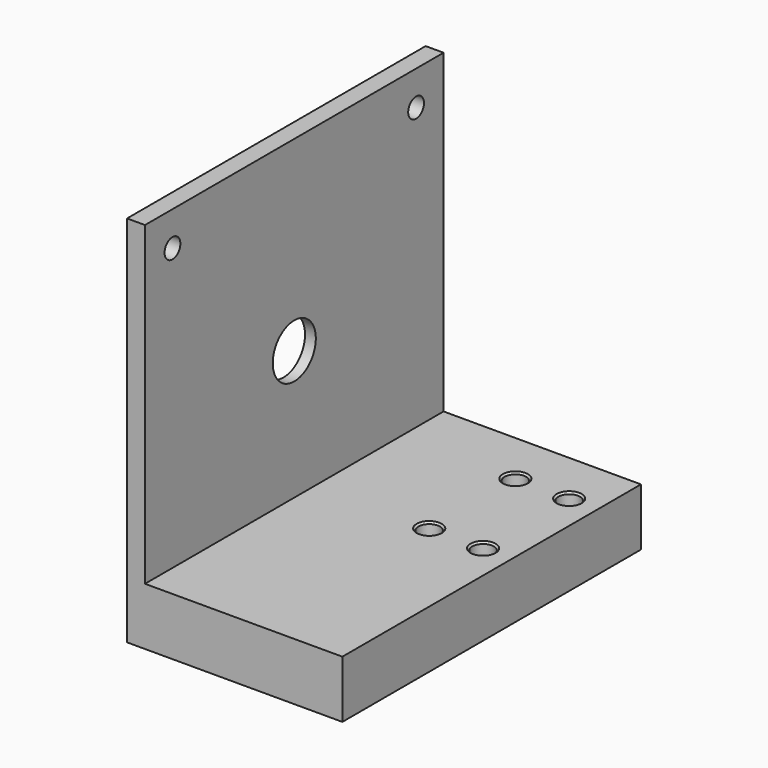
from build123d import *

# Parameters (mm, degrees)
F0_W      = 104
F0_H      = 104
F1_DEPTH  = 5
F2_R      = 2.75
F3_DEPTH  = 5.001
F4_W      = 104
F4_H      = 16
F5_DEPTH  = 55
F6_R      = 2.5
F7_DEPTH  = 12
F9_R      = 47
F10_DEPTH = 2
F11_R     = 7.5
F12_DEPTH = 58.001
F8_R      = 3
F13_DEPTH = 16.001
F14_SIZE  = 0.5


with BuildPart() as f1:
    # F0 (on Right) → F1 (new body)
    with BuildSketch(Plane.YZ):
        Rectangle(F0_W, F0_H)
    extrude(amount=F1_DEPTH)

    # F2 (on face) → F3 (cut, through all)
    with BuildSketch(Plane.YZ.offset(5)):
        with Locations((42.426407, 42.426407)):
            Circle(F2_R)
        with Locations((-42.426407, 42.426407)):
            Circle(F2_R)
    extrude(amount=-F3_DEPTH, mode=Mode.SUBTRACT)

    # F4 (on face) → F5 (join)
    with BuildSketch(Plane.YZ.offset(5)):
        with Locations((0, -44)):
            Rectangle(F4_W, F4_H)
    extrude(amount=F5_DEPTH)

    # F6 (on face) → F7 (cut)
    with BuildSketch(Plane(origin=(0, 0, 0), x_dir=(0, -1, 0), z_dir=(-1, 0, 0))):
        with Locations((-42.426407, -42.426407)):
            Circle(F6_R)
        with Locations((42.426407, -42.426407)):
            Circle(F6_R)
    extrude(amount=-F7_DEPTH, mode=Mode.SUBTRACT)

    # F9 (on face) → F10 (cut)
    with BuildSketch(Plane(origin=(0, 0, 0), x_dir=(0, -1, 0), z_dir=(-1, 0, 0))):
        Circle(F9_R)
    extrude(amount=-F10_DEPTH, mode=Mode.SUBTRACT)

    # F11 (on face) → F12 (cut, through all)
    with BuildSketch(Plane(origin=(2, 0, 0), x_dir=(0, -1, 0), z_dir=(-1, 0, 0))):
        Circle(F11_R)
    extrude(amount=-F12_DEPTH, mode=Mode.SUBTRACT)

    # F8 (on face) → F13 (cut, through all)
    with BuildSketch(Plane.XY.offset(-36)):
        with Locations((52, 37)):
            Circle(F8_R)
        with Locations((52, 7)):
            Circle(F8_R)
        with Locations((37, 37)):
            Circle(F8_R)
        with Locations((37, 7)):
            Circle(F8_R)
    extrude(amount=-F13_DEPTH, mode=Mode.SUBTRACT)

    # F14
    f14_edges = [f1.edges().sort_by_distance(p)[0] for p in [
        (34, 37, -36),
        (40, 37, -44),
        (34, 37, -52),
        (49, 37, -36),
        (55, 37, -44),
        (49, 37, -52),
        (34, 7, -36),
        (40, 7, -44),
        (34, 7, -52),
        (49, 7, -36),
        (55, 7, -44),
        (49, 7, -52),
    ]]
    chamfer(f14_edges, length=F14_SIZE)


solid = f1.part
